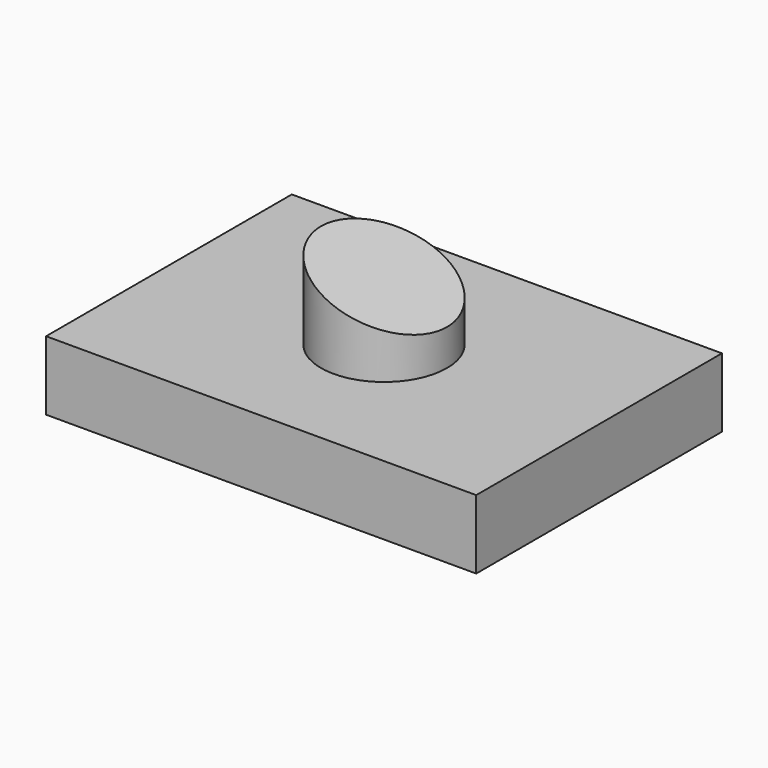
from build123d import *

# Parameters (mm, degrees)
F0_W     = 79.076722
F0_H     = 56.460418
F1_DEPTH = 12.7
F2_R     = 11.586166
F3_DEPTH = 23.368
F5_DEPTH = 20.828
F6_DEPTH = 37.338


with BuildPart() as f1:
    # F0 (on Top) → F1 (new body)
    with BuildSketch(Plane.XY):
        Rectangle(F0_W, F0_H)
    extrude(amount=F1_DEPTH)

    # F2 (on face) → F3 (join)
    with BuildSketch(Plane.XY.offset(12.7)):
        Circle(F2_R)
    extrude(amount=F3_DEPTH)

    # F4 (on Front) → F5 (cut)
    with BuildSketch(Plane.XZ):
        Polygon((-16.648348, 45.342267), (-16.648348, 30.036526), (12.731089, 18.900771), (12.731089, 45.342267), align=None)
    extrude(amount=-F5_DEPTH, mode=Mode.SUBTRACT)

    # F4 (on Front) → F6 (cut)
    with BuildSketch(Plane.XZ):
        Polygon((-16.648348, 45.342267), (-16.648348, 30.036526), (12.731089, 18.900771), (12.731089, 45.342267), align=None)
    extrude(amount=F6_DEPTH, mode=Mode.SUBTRACT)


solid = f1.part
